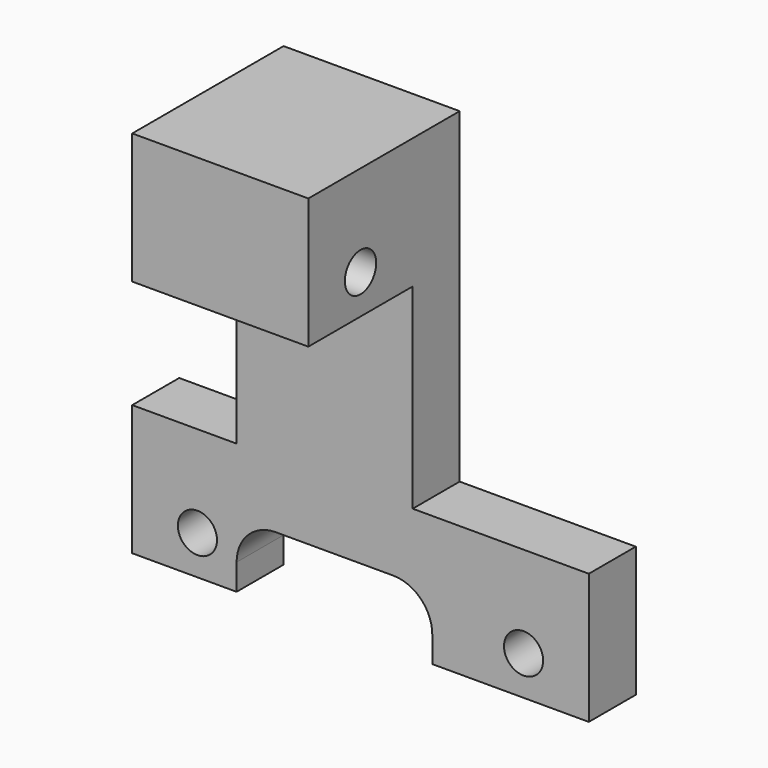
from build123d import *

# Parameters (mm, degrees)
F0_W      = 35
F0_H      = 37
F1_DEPTH  = 4.5
F2_R      = 1.5
F3_DEPTH  = 10
F4_W      = 35
F4_H      = 10
F5_DEPTH  = 10
F6_R      = 3
F7_DEPTH  = 6
F8_W      = 35
F8_H      = 4.5
F9_DEPTH  = 2
F10_W     = 8
F10_H     = 25
F10_W_2   = 13.5
F11_DEPTH = 14.501
F12_W     = 15
F12_H     = 5
F13_DEPTH = 4.501
F14_R     = 3
F15_R     = 1.5
F16_DEPTH = 21.501


with BuildPart() as f1:
    # F0 (on Front) → F1 (new body)
    with BuildSketch(Plane.XZ):
        with Locations((0, -1.5)):
            Rectangle(F0_W, F0_H)
    extrude(amount=F1_DEPTH)

    # F2 (on face) → F3 (cut)
    with BuildSketch(Plane.XZ.offset(4.5)):
        with Locations((12.5, -15)):
            Circle(F2_R)
        with Locations((-12.5, -15)):
            Circle(F2_R)
    extrude(amount=-F3_DEPTH, mode=Mode.SUBTRACT)

    # F4 (on face) → F5 (join)
    with BuildSketch(Plane.XZ.offset(4.5)):
        with Locations((0, 12)):
            Rectangle(F4_W, F4_H)
    extrude(amount=F5_DEPTH)

    # F6 (on face) → F7 (cut)
    with BuildSketch(Plane(origin=(0, 0, 7), x_dir=(1, 0, 0), z_dir=(0, 0, -1))):
        with Locations((-2.75, 9.5)):
            Circle(F6_R)
    extrude(amount=-F7_DEPTH, mode=Mode.SUBTRACT)

    # F8 (on face) → F9 (cut)
    with BuildSketch(Plane(origin=(0, 0, -20), x_dir=(1, 0, 0), z_dir=(0, 0, -1))):
        with Locations((0, 2.25)):
            Rectangle(F8_W, F8_H)
    extrude(amount=-F9_DEPTH, mode=Mode.SUBTRACT)

    # F10 (on face) → F11 (cut, through all)
    with BuildSketch(Plane.XZ.offset(14.5)):
        with Locations((-13.5, 4.5)):
            Rectangle(F10_W, F10_H)
        with Locations((10.75, 4.5)):
            Rectangle(F10_W_2, F10_H)
    extrude(amount=-F11_DEPTH, mode=Mode.SUBTRACT)

    # F12 (on face) → F13 (cut, through all)
    with BuildSketch(Plane.XZ.offset(4.5)):
        with Locations((-2, -15.5)):
            Rectangle(F12_W, F12_H)
    extrude(amount=-F13_DEPTH, mode=Mode.SUBTRACT)

    # F14
    f14_edges = [f1.edges().sort_by_distance(p)[0] for p in [
        (5.5, -2.25, -13),
        (-9.5, -2.25, -13),
    ]]
    fillet(f14_edges, radius=F14_R)

    # F15 (on face) → F16 (cut, through all)
    with BuildSketch(Plane.YZ.offset(4)):
        with Locations((-9.5, 10)):
            Circle(F15_R)
    extrude(amount=-F16_DEPTH, mode=Mode.SUBTRACT)


solid = f1.part
